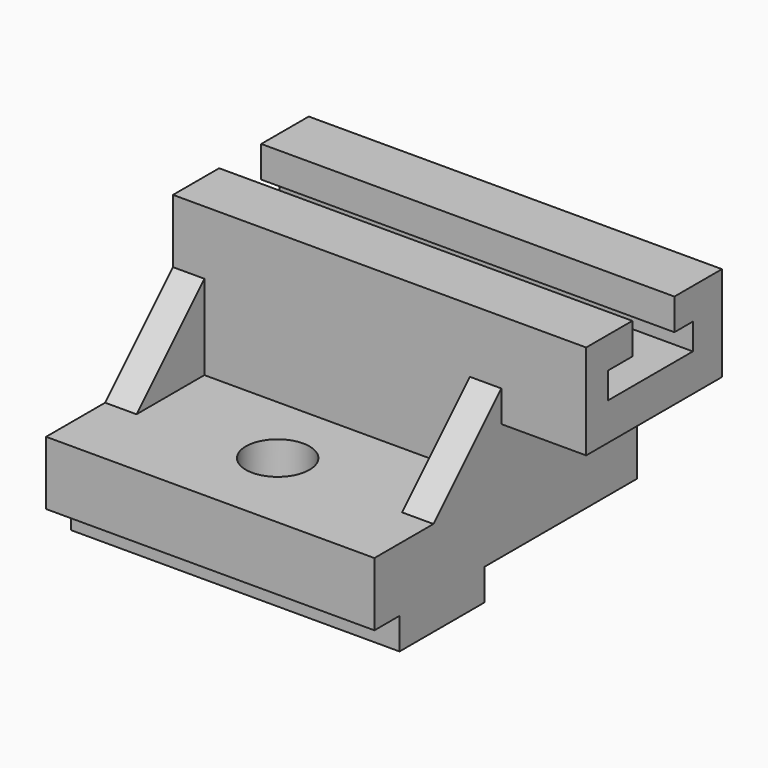
from build123d import *

# Parameters (mm, degrees)
F0_W      = 123.698
F0_H      = 15.748
F0_H_2    = 17.78
F1_DEPTH  = 72.898
F0_R      = 9.525
F0_W_2    = 9.398
F0_H_3    = 25.4
F2_DEPTH  = 28.448
F3_DEPTH  = 53.848
F5_W      = 50.8
F5_H      = 40.1962287724
F7_DEPTH  = 25.4
F4_W      = 9.398
F4_H      = 9.398
F8_DEPTH  = 110.998
F9_W      = 57.15
F9_H      = 9.398
F10_DEPTH = 120.396
F12_DEPTH = 25.4
F14_DEPTH = 25.4
F6_W      = 25.4
F6_H      = 44.45
F16_DEPTH = 65.532
F17_DEPTH = 161.036


with BuildPart() as f1:
    # F0 (on Top) → F1 (new body)
    with BuildSketch(Plane.XY):
        Polygon((82.1496228902, 25.8759405019), (-41.5483771098, 25.8759405019), (-41.5483771098, 8.6039405019), (-32.1503771098, 8.6039405019), (47.3516228902, 8.6039405019), (56.7496228902, 8.6039405019), (82.1496228902, 8.6039405019), align=None)
        with Locations((20.3006228902, 33.7499405019)):
            Rectangle(F0_W, F0_H)
        with Locations((20.3006228902, 50.5139405019)):
            Rectangle(F0_W, F0_H_2)
    extrude(amount=F1_DEPTH)

    # F0 (on Top) → F2 (join)
    with BuildSketch(Plane.XY):
        Polygon((47.3516228902, 8.6039405019), (-32.1503771098, 8.6039405019), (-32.1503771098, -16.7960594981), (-41.5483771098, -16.7960594981), (-41.5483771098, -38.8940594981), (56.7496228902, -38.8940594981), (56.7496228902, -16.7960594981), (47.3516228902, -16.7960594981), align=None)
        with Locations((7.4736228902, -13.4940594981)):
            Circle(F0_R, mode=Mode.SUBTRACT)
        with Locations((52.0506228902, -4.0960594981)):
            Rectangle(F0_W_2, F0_H_3)
        with Locations((-36.8493771098, -4.0960594981)):
            Rectangle(F0_W_2, F0_H_3)
    extrude(amount=F2_DEPTH)

    # F0 (on Top) → F3 (join)
    with BuildSketch(Plane.XY):
        with Locations((52.0506228902, -4.0960594981)):
            Rectangle(F0_W_2, F0_H_3)
        with Locations((-36.8493771098, -4.0960594981)):
            Rectangle(F0_W_2, F0_H_3)
    extrude(amount=F3_DEPTH)

    # F5 (on face) → F7 (cut)
    with BuildSketch(Plane.YZ.offset(82.1496228902)):
        with Locations((34.0039405019, 20.0981143862)):
            Rectangle(F5_W, F5_H)
    extrude(amount=-F7_DEPTH, mode=Mode.SUBTRACT)

    # F4 (on face) → F8 (cut)
    with BuildSketch(Plane.YZ.offset(56.7496228902)):
        with Locations((-34.1950594981, 4.699)):
            Rectangle(F4_W, F4_H)
    extrude(amount=-F8_DEPTH, mode=Mode.SUBTRACT)

    # F9 (on face) → F10 (cut)
    with BuildSketch(Plane.YZ.offset(56.7496228902)):
        with Locations((30.8289405019, 4.699)):
            Rectangle(F9_W, F9_H)
    extrude(amount=-F10_DEPTH, mode=Mode.SUBTRACT)

    # F11 (on face) → F12 (cut)
    with BuildSketch(Plane.YZ.offset(-32.1503771098)):
        Polygon((-16.7960594981, 53.848), (-16.7960594981, 28.448), (8.6039405019, 53.848), align=None)
    extrude(amount=-F12_DEPTH, mode=Mode.SUBTRACT)

    # F13 (on face) → F14 (cut)
    with BuildSketch(Plane(origin=(47.3516228902, 0, 0), x_dir=(0, -1, 0), z_dir=(-1, 0, 0))):
        Polygon((16.7960594981, 53.848), (-8.6039405019, 53.848), (16.7960594981, 28.448), align=None)
    extrude(amount=-F14_DEPTH, mode=Mode.SUBTRACT)

    # F6 (on face) → F16 (cut)
    with BuildSketch(Plane.XZ.offset(-8.6039405019)):
        with Locations((69.4496228902, 22.225)):
            Rectangle(F6_W, F6_H)
    extrude(amount=-F16_DEPTH, mode=Mode.SUBTRACT)

    # F15 (on face) → F17 (cut)
    with BuildSketch(Plane.YZ.offset(82.1496228902)):
        Polygon((41.6239405019, 72.898), (25.8759405019, 72.898), (25.8759405019, 63.5), (16.7880188674, 63.5), (16.7880188674, 55.626), (48.5380188674, 55.626), (48.5380188674, 63.5), (41.6239405019, 63.5), align=None)
    extrude(amount=-F17_DEPTH, mode=Mode.SUBTRACT)


solid = f1.part
